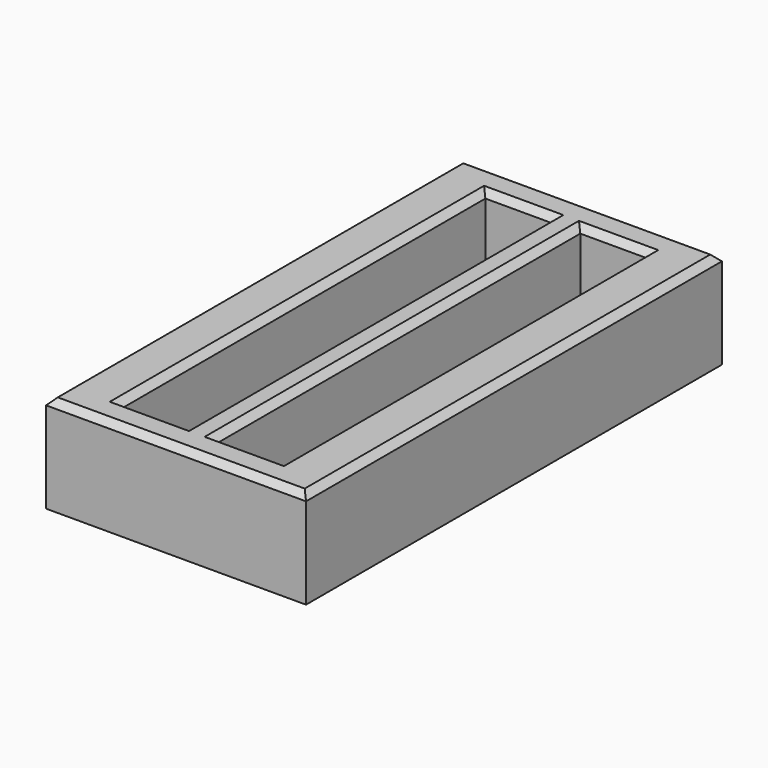
from build123d import *

# Parameters (mm, degrees)
F0_W     = 10.2
F0_H     = 70
F1_DEPTH = 15
F2_SIZE  = 1


with BuildPart() as f1:
    # F0 (on Top) → F1 (new body)
    with BuildSketch(Plane.XY):
        Polygon((20, 0), (0, 0), (-20, 0), (-20, -80), (0, -80), (20, -80), align=None)
        with Locations((-7.3, -40)):
            Rectangle(F0_W, F0_H, mode=Mode.SUBTRACT)
        with Locations((7.3, -40)):
            Rectangle(F0_W, F0_H, mode=Mode.SUBTRACT)
    extrude(amount=F1_DEPTH)

    # F2
    f2_edges = [f1.edges().sort_by_distance(p)[0] for p in [
        (0, 0, 15),
        (-20, -40, 15),
        (0, -80, 15),
        (20, -40, 15),
        (-7.3, -75, 15),
        (-12.4, -40, 15),
        (-7.3, -5, 15),
        (-2.2, -40, 15),
        (7.3, -5, 15),
        (12.4, -40, 15),
        (7.3, -75, 15),
        (2.2, -40, 15),
    ]]
    chamfer(f2_edges, length=F2_SIZE)


solid = f1.part
